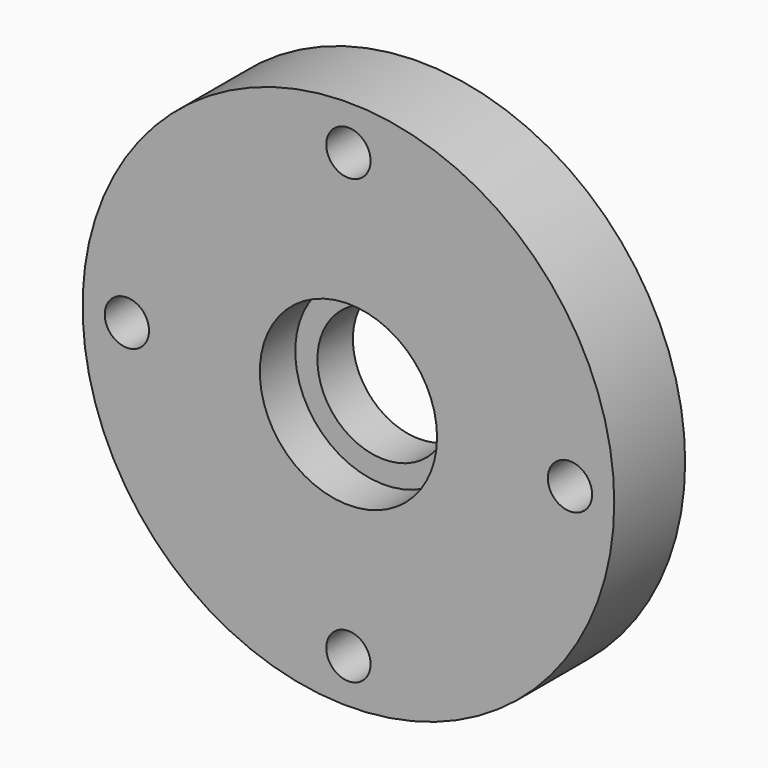
from build123d import *

# Parameters (mm, degrees)
F0_R           = 38.1
F0_R_2         = 0.8751159205
F1_DEPTH       = 12.7
F2_R           = 9.525
F3_DEPTH       = 12.701
F4_R           = 12.7
F5_DEPTH       = 6.35
F7_D           = 3.175
F7_CBORE_D     = 6.35
F7_CBORE_DEPTH = 6.35
F8_R           = 23.8125
F8_R_2         = 22.225
F9_DEPTH       = 1.905


with BuildPart() as f1:
    # F0 (on Front) → F1 (new body)
    with BuildSketch(Plane.XZ):
        Circle(F0_R)
        with Locations((20.7111840319, 10.8808754866)):
            Circle(F0_R_2, mode=Mode.SUBTRACT)
        with Locations((20.7111840319, 10.8808754866)):
            Circle(F0_R_2)
    extrude(amount=F1_DEPTH)

    # F2 (on face) → F3 (cut, through all)
    with BuildSketch(Plane.XZ.offset(12.7)):
        Circle(F2_R)
    extrude(amount=-F3_DEPTH, mode=Mode.SUBTRACT)

    # F4 (on face) → F5 (cut)
    with BuildSketch(Plane.XZ.offset(12.7)):
        Circle(F4_R)
    extrude(amount=-F5_DEPTH, mode=Mode.SUBTRACT)

    # F7 (through all)
    with Locations(Plane.XZ.offset(12.7)):
        with Locations((0, 31.75), (31.75, 0), (0, -31.75), (-31.75, 0)):
            CounterBoreHole(F7_D / 2, F7_CBORE_D / 2, F7_CBORE_DEPTH)

    # F8 (on face) → F9 (cut)
    with BuildSketch(Plane(origin=(0, 0, 0), x_dir=(-1, 0, 0), z_dir=(0, 1, 0))):
        Circle(F8_R)
        Circle(F8_R_2, mode=Mode.SUBTRACT)
    extrude(amount=-F9_DEPTH, mode=Mode.SUBTRACT)


solid = f1.part
